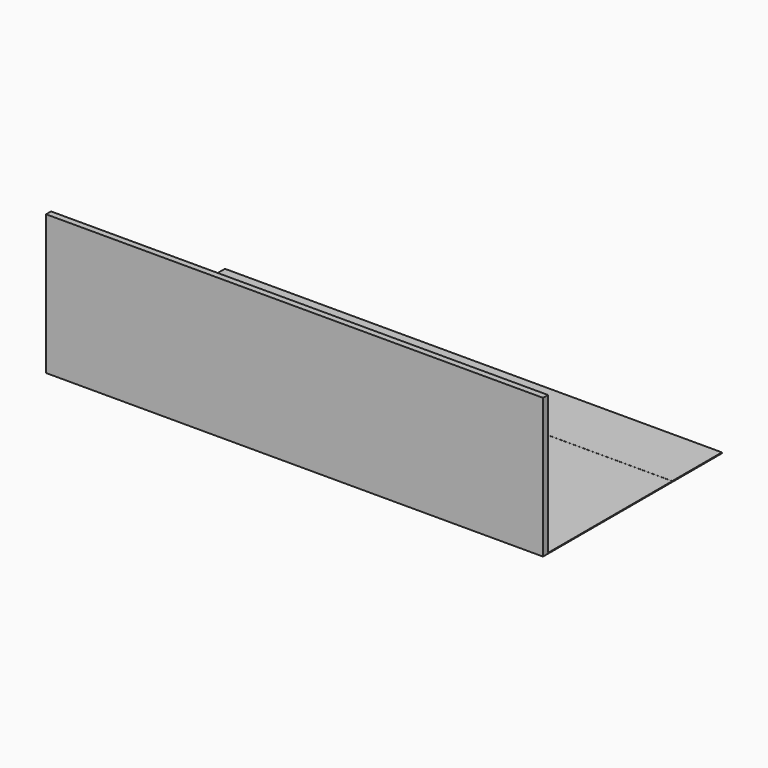
from build123d import *

# Parameters (mm, degrees)
F0_W     = 16000
F0_H     = 7000
F1_DEPTH = 25
F2_W     = 16000
F2_H     = 2000
F4_DEPTH = 2.5
F3_W     = 16000
F3_H     = 4500
F5_DEPTH = 200
F6_W     = 300
F6_H     = 300
F7_DEPTH = 3000
F8_W     = 2000
F8_H     = 1000
F9_DEPTH = 1000


with BuildPart() as f1:
    # F0 (on Top) → F1 (new body)
    with BuildSketch(Plane.XY):
        Rectangle(F0_W, F0_H)
    extrude(amount=F1_DEPTH)

    # F2 (on face) → F4 (join)
    with BuildSketch(Plane.XY.offset(25)):
        with Locations((0, 2500)):
            Rectangle(F2_W, F2_H)
    extrude(amount=F4_DEPTH)


with BuildPart() as f5:
    # F3 (on face) → F5 (new body)
    with BuildSketch(Plane.XZ.offset(3500)):
        with Locations((0, 2250)):
            Rectangle(F3_W, F3_H)
    extrude(amount=F5_DEPTH)


with BuildPart() as f7:
    # F6 (on face) → F7 (new body)
    with BuildSketch(Plane.XY.offset(25)):
        with Locations((-5350, -3350)):
            Rectangle(F6_W, F6_H)
    extrude(amount=F7_DEPTH)


with BuildPart() as f9:
    # F8 (on face) → F9 (new body)
    with BuildSketch(Plane.XY.offset(25)):
        with Locations((6200, -3000)):
            Rectangle(F8_W, F8_H)
    extrude(amount=F9_DEPTH)


solid = Compound([f1.part, f5.part, f7.part, f9.part])
